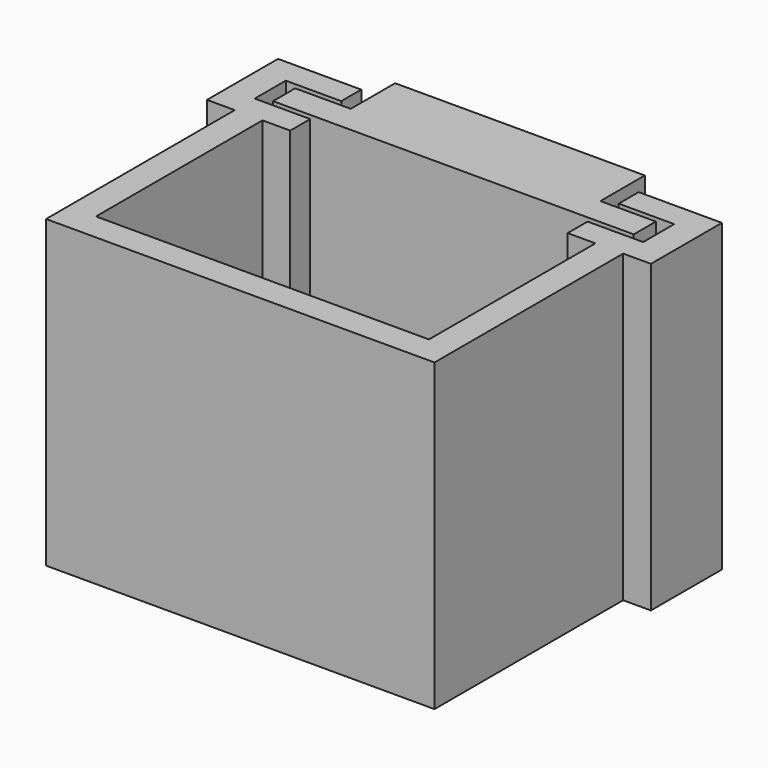
from build123d import *

# Parameters (mm, degrees)
F1_DEPTH = 22
F2_W     = 18
F2_H     = 4
F3_DEPTH = 4


with BuildPart() as f1:
    # F0 (on Top) → F1 (new body)
    with BuildSketch(Plane.XY):
        Polygon((-10, 3.2), (-14, 3.2), (-16, 3.2), (-16, -3.2), (-14, -3.2), (-14, -20.2), (0, -20.2), (14, -20.2), (14, -3.2), (16, -3.2), (16, 3.2), (14, 3.2), (10, 3.2), (10, 1.4), (14, 1.4), (14, -1), (14, -1.4), (10, -1.4), (10, -3.2), (12, -3.2), (12, -18.2), (0, -18.2), (-12, -18.2), (-12, -3.2), (-10, -3.2), (-10, -1.4), (-14, -1.4), (-14, 1.4), (-10, 1.4), align=None)
        Polygon((-2.467513, 1), (-13, 1), (-13, -1), (-2.467513, -1), (13, -1), (13, 1), align=None)
    extrude(amount=F1_DEPTH)

    # F2 (on face) → F3 (join)
    with BuildSketch(Plane(origin=(0, 1, 0), x_dir=(-1, 0, 0), z_dir=(0, 1, 0))):
        with Locations((0, 20)):
            Rectangle(F2_W, F2_H)
    extrude(amount=F3_DEPTH)


solid = f1.part
